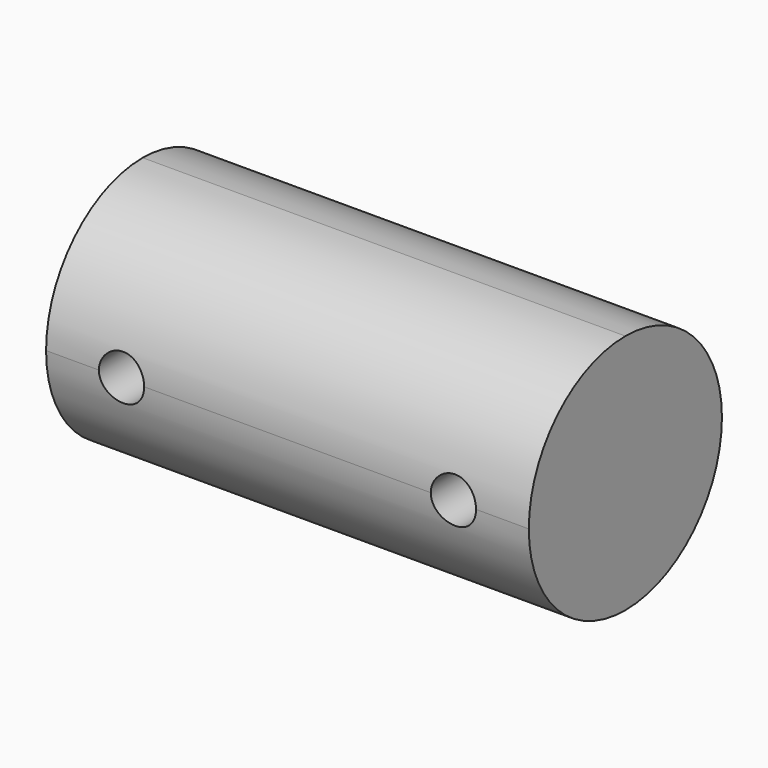
from build123d import *

# Parameters (mm, degrees)
F0_W     = 7.9375
F0_H     = 12.7
F0_W_2   = 34.925
F1_DEPTH = 12.7
F3_D     = 4.7625
F5_DEPTH = 50.8


with BuildPart() as f1:
    # F0 (on Front) → F1 (new body, symmetric)
    with BuildSketch(Plane.XZ):
        with Locations((3.96875, -6.35)):
            Rectangle(F0_W, F0_H)
        with Locations((25.4, -6.35)):
            Rectangle(F0_W_2, F0_H)
        with Locations((46.83125, -6.35)):
            Rectangle(F0_W, F0_H)
        with Locations((3.96875, 6.35)):
            Rectangle(F0_W, F0_H)
        with Locations((25.4, 6.35)):
            Rectangle(F0_W_2, F0_H)
        with Locations((46.83125, 6.35)):
            Rectangle(F0_W, F0_H)
    extrude(amount=F1_DEPTH, both=True)

    # F3 (through all)
    with Locations(Plane.XZ.offset(12.7)):
        with Locations((7.9375, 0), (42.8625, 0)):
            Hole(F3_D / 2)

    # F4 (on face) → F5 (cut)
    with BuildSketch(Plane(origin=(0, 0, 0), x_dir=(0, -1, 0), z_dir=(-1, 0, 0))):
        with BuildLine():
            Line((12.7, -12.7), (12.7, 0))
            ThreePointArc((12.7, 0), (8.9802561211, -8.9802561211), (0, -12.7))
            Line((0, -12.7), (12.7, -12.7))
        make_face()
        with BuildLine():
            Line((-12.7, -12.7), (0, -12.7))
            ThreePointArc((0, -12.7), (-8.9802561211, -8.9802561211), (-12.7, 0))
            Line((-12.7, 0), (-12.7, -12.7))
        make_face()
        with BuildLine():
            ThreePointArc((-12.7, 0), (-8.9802561145, 8.9802561276), (1.86e-08, 12.7))
            Line((1.86e-08, 12.7), (-12.7, 12.7))
            Line((-12.7, 12.7), (-12.7, 0))
        make_face()
        with BuildLine():
            ThreePointArc((1.86e-08, 12.7), (8.9802561276, 8.9802561145), (12.7, 0))
            Line((12.7, 0), (12.7, 12.7))
            Line((12.7, 12.7), (1.86e-08, 12.7))
        make_face()
    extrude(amount=-F5_DEPTH, mode=Mode.SUBTRACT)


solid = f1.part
